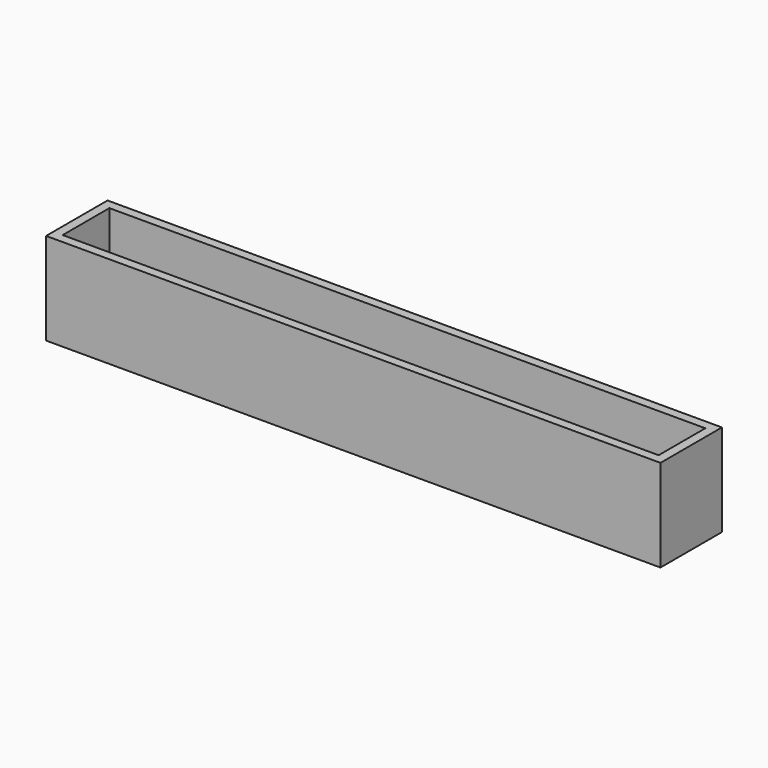
from build123d import *

# Parameters (mm, degrees)
SKETCH_W     = 200
SKETCH_H     = 25
PAD_DEPTH    = 30
SKETCH001_W  = 194
SKETCH001_H  = 19
POCKET_DEPTH = 26


with BuildPart() as part:
    # Sketch → Pad (new body)
    with BuildSketch(Plane.XY):
        Rectangle(SKETCH_W, SKETCH_H)
    extrude(amount=PAD_DEPTH)

    # Sketch001 (on DatumPlane) → Pocket (cut)
    with BuildSketch(Plane.XY.offset(30)):
        Rectangle(SKETCH001_W, SKETCH001_H)
    extrude(amount=-POCKET_DEPTH, mode=Mode.SUBTRACT)


solid = part.part
